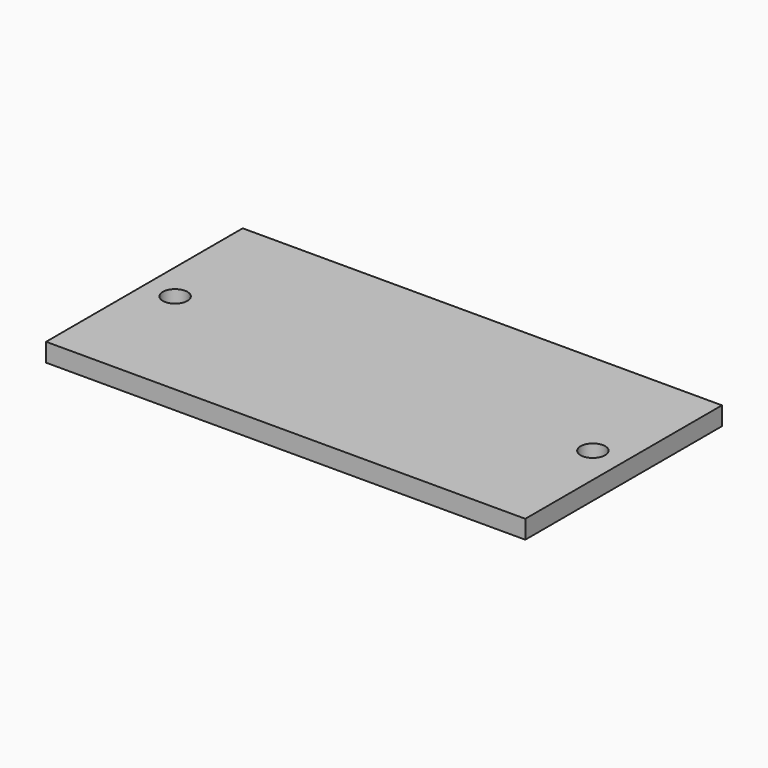
from build123d import *

# Parameters (mm, degrees)
F0_W     = 39
F0_H     = 40
F0_R     = 2
F1_DEPTH = 3


with BuildPart() as f1:
    # F0 (on Top) → F1 (new body)
    with BuildSketch(Plane.XY):
        with Locations((-19.5, 20)):
            Rectangle(F0_W, F0_H)
        with Locations((-34, 20)):
            Circle(F0_R, mode=Mode.SUBTRACT)
        with Locations((19.5, 20)):
            Rectangle(F0_W, F0_H)
        with Locations((34, 20)):
            Circle(F0_R, mode=Mode.SUBTRACT)
    extrude(amount=F1_DEPTH)


solid = f1.part
